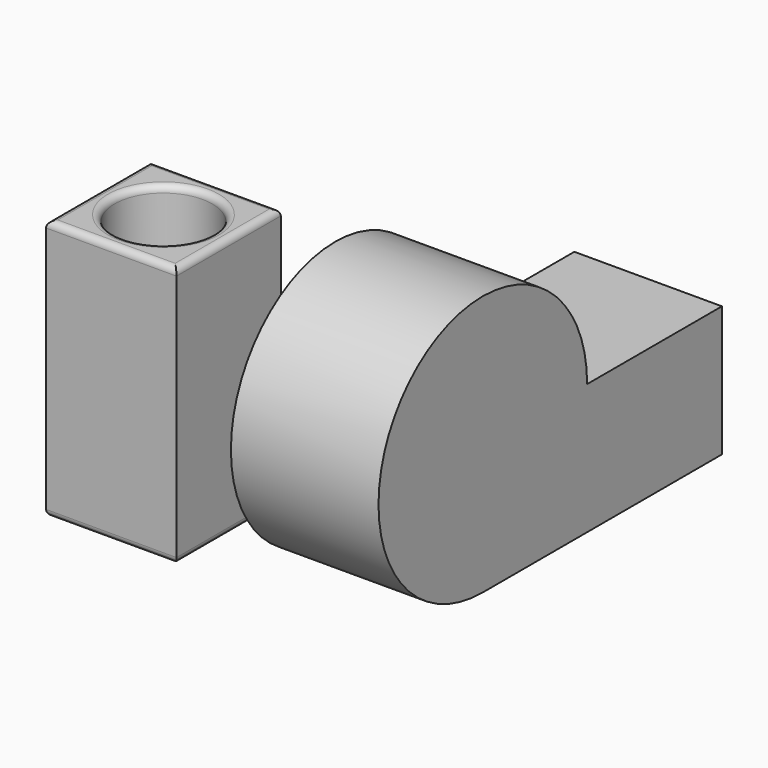
from build123d import *

# Parameters (mm, degrees)
F0_W      = 25.4
F0_H      = 25.4
F1_DEPTH  = 50.8
F2_R      = 9.525
F3_DEPTH  = 38.1
F4_R      = 5.08
F5_R      = 1.27
F6_R      = 1.27
F7_W      = 28.751326
F7_H      = 58.223737
F8_DEPTH  = 25.4
F8_FACE_W = 28.751326
F8_FACE_H = 25.4


with BuildPart() as f1:
    # F0 (on Top) → F1 (new body)
    with BuildSketch(Plane.XY):
        Rectangle(F0_W, F0_H)
    extrude(amount=F1_DEPTH)

    # F2 (on face) → F3 (cut)
    with BuildSketch(Plane.XY.offset(50.8)):
        Circle(F2_R)
    extrude(amount=-F3_DEPTH, mode=Mode.SUBTRACT)

    # F4
    f4_edges = [f1.edges().sort_by_distance(p)[0] for p in [
        (-9.525, 0, 12.7),
    ]]
    fillet(f4_edges, radius=F4_R)

    # F5
    f5_edges = [f1.edges().sort_by_distance(p)[0] for p in [
        (-9.525, 0, 50.8),
        (0, 12.7, 50.8),
        (-12.7, 0, 50.8),
        (0, -12.7, 50.8),
        (12.7, 0, 50.8),
    ]]
    fillet(f5_edges, radius=F5_R)

    # F6
    f6_edges = [f1.edges().sort_by_distance(p)[0] for p in [
        (0, -12.7, 0),
        (12.7, 0, 0),
        (0, 12.7, 0),
        (-12.7, 0, 0),
    ]]
    fillet(f6_edges, radius=F6_R)


with BuildPart() as f8:
    # F7 (on Top) → F8 (new body)
    with BuildSketch(Plane.XY):
        with Locations((40.368625, 38.457932)):
            Rectangle(F7_W, F7_H)
    extrude(amount=F8_DEPTH)

    # F8_face (on face) → F9 (revolve)
    with BuildSketch(Plane(origin=(40.368625, 9.346063, 12.7), x_dir=(1, 0, 0), z_dir=(0, -1, 0))):
        Rectangle(F8_FACE_W, F8_FACE_H)
    revolve(axis=Axis((40.368625, 9.346063, 25.4), (1, 0, 0)))


solid = Compound([f1.part, f8.part])
